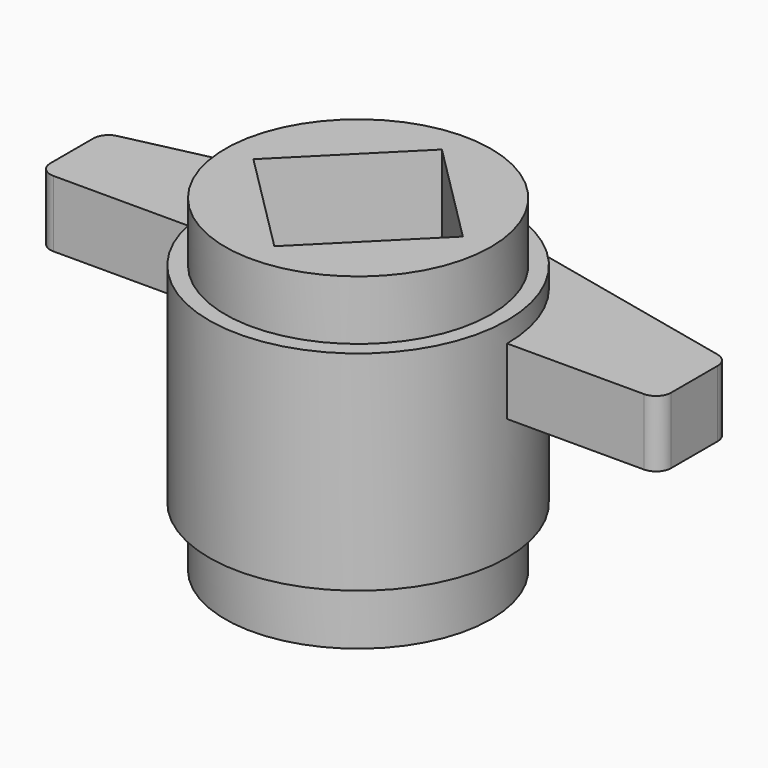
from build123d import *

# Parameters (mm, degrees)
F0_R      = 7.85
F1_DEPTH  = 11
F2_R      = 7
F3_DEPTH  = 3.13
F4_R      = 7
F5_DEPTH  = 3.13
F7_DEPTH  = 17.261
F10_DEPTH = 3.5


with BuildPart() as f1:
    # F0 (on Top) → F1 (new body)
    with BuildSketch(Plane.XY):
        Circle(F0_R)
    extrude(amount=F1_DEPTH)

    # F2 (on face) → F3 (join)
    with BuildSketch(Plane.XY.offset(11)):
        Circle(F2_R)
    extrude(amount=F3_DEPTH)

    # F4 (on face) → F5 (join)
    with BuildSketch(Plane(origin=(0, 0, 0), x_dir=(1, 0, 0), z_dir=(0, 0, -1))):
        Circle(F4_R)
    extrude(amount=F5_DEPTH)

    # F6 (on face) → F7 (cut, through all)
    with BuildSketch(Plane.XY.offset(14.13)):
        Polygon((5.5154328933, 0), (0, 5.5154328933), (0, 0), align=None)
        Polygon((0, 0), (0, 5.5154328933), (-5.5154328933, 0), align=None)
        Polygon((5.5154328933, 0), (0, 0), (0, -5.5154328933), align=None)
        Polygon((0, -5.5154328933), (0, 0), (-5.5154328933, 0), align=None)
    extrude(amount=-F7_DEPTH, mode=Mode.SUBTRACT)

    # F9 (on offset) → F10 (join)
    with BuildSketch(Plane.XY.offset(9.93)):
        with BuildLine():
            Line((-16.05, 0), (-7.85, 0))
            ThreePointArc((-7.85, 0), (-6.1265149302, 4.9079848013), (-1.7128497301, 7.6608515063))
            Line((-1.7128497301, 7.6608515063), (-16.2245579343, 4.41625455))
            ThreePointArc((-16.2245579343, 4.41625455), (-16.6743582095, 4.1357076247), (-16.85, 3.6355308296))
            Line((-16.85, 3.6355308296), (-16.85, 0.8))
            ThreePointArc((-16.85, 0.8), (-16.6156854249, 0.2343145751), (-16.05, 0))
        make_face()
        with BuildLine():
            ThreePointArc((1.7128497301, 7.6608515063), (6.1265149302, 4.9079848013), (7.85, 0))
            Line((7.85, 0), (15.05, 0))
            ThreePointArc((15.05, 0), (15.6156854249, 0.2343145751), (15.85, 0.8))
            Line((15.85, 0.8), (15.85, 3.8591156007))
            ThreePointArc((15.85, 3.8591156007), (15.6743582095, 4.3592923957), (15.2245579343, 4.6398393211))
            Line((15.2245579343, 4.6398393211), (1.7128497301, 7.6608515063))
        make_face()
    extrude(amount=-F10_DEPTH)


solid = f1.part
